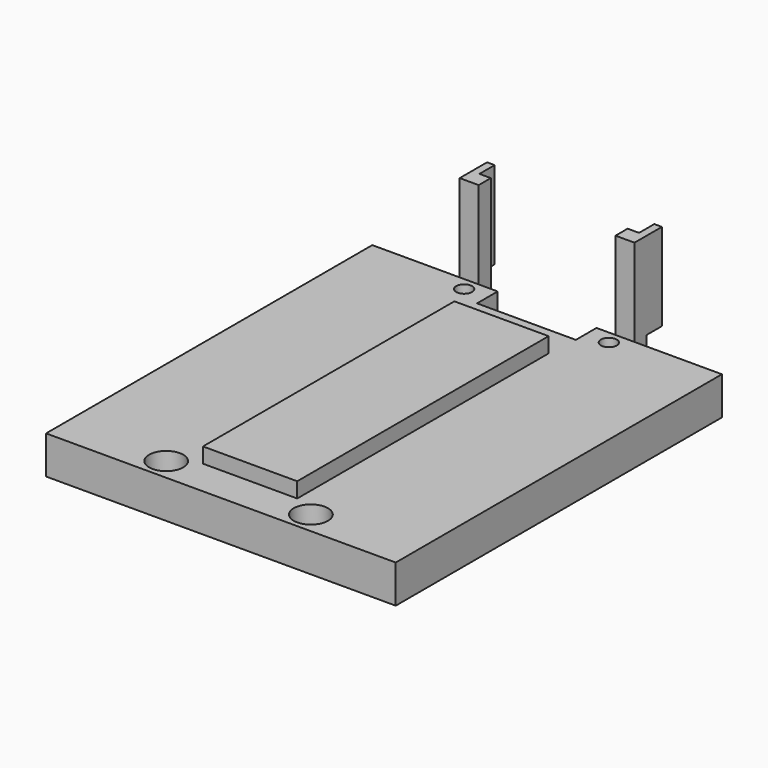
from build123d import *

# Parameters (mm, degrees)
F0_R      = 1.3335
F1_DEPTH  = 6.35
F2_W      = 16.51
F2_H      = 4.318
F3_DEPTH  = 6.351
F5_DEPTH  = 1.778
F6_DEPTH  = 6.604
F7_DEPTH  = 3.429
F4_W      = 15.748
F4_H      = 52.5018
F8_DEPTH  = 2.54
F9_W      = 6.35
F9_H      = 6.35
F10_W     = 6.35
F10_H     = 6.35
F11_DEPTH = 2.54
F12_W     = 6.35
F12_H     = 2.54
F13_DEPTH = 14.605
F14_W     = 3.175
F14_H     = 2.54
F15_DEPTH = 20.956
F16_W     = 1.27
F16_H     = 14.605
F17_W     = 1.27
F17_H     = 14.605
F18_DEPTH = 3.175


with BuildPart() as f1:
    # F0 (on Top) → F1 (new body)
    with BuildSketch(Plane.XY):
        with BuildLine():
            Line((58.42, 0), (0, 0))
            Line((0, 0), (0, -66.3448))
            Line((0, -66.3448), (14.9897452514, -66.3448))
            ThreePointArc((14.9897452514, -66.3448), (16.0999808785, -61.7704024843), (19.9771, -64.4398))
            ThreePointArc((19.9771, -64.4398), (19.7889975157, -65.4594191215), (19.2494547486, -66.3448))
            Line((19.2494547486, -66.3448), (39.1705452514, -66.3448))
            ThreePointArc((39.1705452514, -66.3448), (40.2807808785, -61.7704024843), (44.1579, -64.4398))
            ThreePointArc((44.1579, -64.4398), (43.9697975157, -65.4594191215), (43.4302547486, -66.3448))
            Line((43.4302547486, -66.3448), (58.42, -66.3448))
            Line((58.42, -66.3448), (58.42, 0))
        make_face()
        with Locations((17.1196, -2.2098)):
            Circle(F0_R, mode=Mode.SUBTRACT)
        with Locations((41.3004, -2.2098)):
            Circle(F0_R, mode=Mode.SUBTRACT)
        with BuildLine():
            ThreePointArc((19.9771, -64.4398), (16.0999808785, -61.7704024843), (14.9897452514, -66.3448))
            Line((14.9897452514, -66.3448), (19.2494547486, -66.3448))
            ThreePointArc((19.2494547486, -66.3448), (19.7889975157, -65.4594191215), (19.9771, -64.4398))
        make_face()
        with Locations((17.1196, -64.4398)):
            Circle(F0_R, mode=Mode.SUBTRACT)
        with BuildLine():
            Line((39.1705452514, -66.3448), (43.4302547486, -66.3448))
            ThreePointArc((43.4302547486, -66.3448), (43.9697975157, -65.4594191215), (44.1579, -64.4398))
            ThreePointArc((44.1579, -64.4398), (40.2807808785, -61.7704024843), (39.1705452514, -66.3448))
        make_face()
        with Locations((41.3004, -64.4398)):
            Circle(F0_R, mode=Mode.SUBTRACT)
    extrude(amount=F1_DEPTH)

    # F2 (on face) → F3 (cut, through all)
    with BuildSketch(Plane.XY.offset(6.35)):
        with Locations((29.21, -2.159)):
            Rectangle(F2_W, F2_H)
    extrude(amount=-F3_DEPTH, mode=Mode.SUBTRACT)

    # F5 (add): a face of the model
    f5_faces = [f1.faces().sort_by_distance(p)[0] for p in [
        (29.21, -66.3448, 3.175),
    ]]
    extrude(f5_faces, amount=F5_DEPTH)

    # F0 (on Top) → F6 (join)
    with BuildSketch(Plane.XY):
        with BuildLine():
            Line((39.1705452514, -66.3448), (43.4302547486, -66.3448))
            ThreePointArc((43.4302547486, -66.3448), (43.9697975157, -65.4594191215), (44.1579, -64.4398))
            ThreePointArc((44.1579, -64.4398), (40.2807808785, -61.7704024843), (39.1705452514, -66.3448))
        make_face()
        with Locations((41.3004, -64.4398)):
            Circle(F0_R, mode=Mode.SUBTRACT)
        with BuildLine():
            ThreePointArc((19.9771, -64.4398), (16.0999808785, -61.7704024843), (14.9897452514, -66.3448))
            Line((14.9897452514, -66.3448), (19.2494547486, -66.3448))
            ThreePointArc((19.2494547486, -66.3448), (19.7889975157, -65.4594191215), (19.9771, -64.4398))
        make_face()
        with Locations((17.1196, -64.4398)):
            Circle(F0_R, mode=Mode.SUBTRACT)
        with BuildLine():
            Line((19.2494547486, -66.3448), (14.9897452514, -66.3448))
            ThreePointArc((14.9897452514, -66.3448), (17.1196, -67.2973), (19.2494547486, -66.3448))
        make_face()
        with BuildLine():
            ThreePointArc((39.1705452514, -66.3448), (41.3004, -67.2973), (43.4302547486, -66.3448))
            Line((43.4302547486, -66.3448), (39.1705452514, -66.3448))
        make_face()
    extrude(amount=F6_DEPTH)

    # F7 (cut): faces of the model
    f7_faces = [f1.faces().sort_by_distance(p)[0] for p in [
        (19.1892133591, -62.5886815367, 6.604),
        (43.3700133591, -62.5886815367, 6.604),
    ]]
    extrude(f7_faces, amount=-F7_DEPTH, mode=Mode.SUBTRACT)

    # F4 (on face) → F8 (join)
    with BuildSketch(Plane.XY.offset(6.35)):
        with Locations((29.21, -35.7759)):
            Rectangle(F4_W, F4_H)
    extrude(amount=F8_DEPTH)

    # F9 (on face) + F10 (on face) → F11 (join)
    with BuildSketch(Plane(origin=(0, 0, 0), x_dir=(-1, 0, 0), z_dir=(0, 1, 0))):
        with Locations((-17.78, 3.175)):
            Rectangle(F9_W, F9_H)
    with BuildSketch(Plane(origin=(0, 0, 0), x_dir=(-1, 0, 0), z_dir=(0, 1, 0))):
        with Locations((-40.64, 3.175)):
            Rectangle(F10_W, F10_H)
    extrude(amount=F11_DEPTH)

    # F12 (on face) → F13 (join)
    with BuildSketch(Plane.XY.offset(6.35)):
        with Locations((17.78, 1.27)):
            Rectangle(F12_W, F12_H)
        with Locations((40.64, 1.27)):
            Rectangle(F12_W, F12_H)
    extrude(amount=F13_DEPTH)

    # F14 (on face) → F15 (cut, through all)
    with BuildSketch(Plane(origin=(0, 0, 0), x_dir=(1, 0, 0), z_dir=(0, 0, -1))):
        with Locations((19.3675, -1.27)):
            Rectangle(F14_W, F14_H)
        with Locations((39.0525, -1.27)):
            Rectangle(F14_W, F14_H)
    extrude(amount=-F15_DEPTH, mode=Mode.SUBTRACT)

    # F16 (on face) + F17 (on face) → F18 (join)
    with BuildSketch(Plane(origin=(0, 2.54, 0), x_dir=(-1, 0, 0), z_dir=(0, 1, 0))):
        with Locations((-43.18, 13.6525)):
            Rectangle(F16_W, F16_H)
    with BuildSketch(Plane(origin=(0, 2.54, 0), x_dir=(-1, 0, 0), z_dir=(0, 1, 0))):
        with Locations((-15.24, 13.6525)):
            Rectangle(F17_W, F17_H)
    extrude(amount=F18_DEPTH)


solid = f1.part
